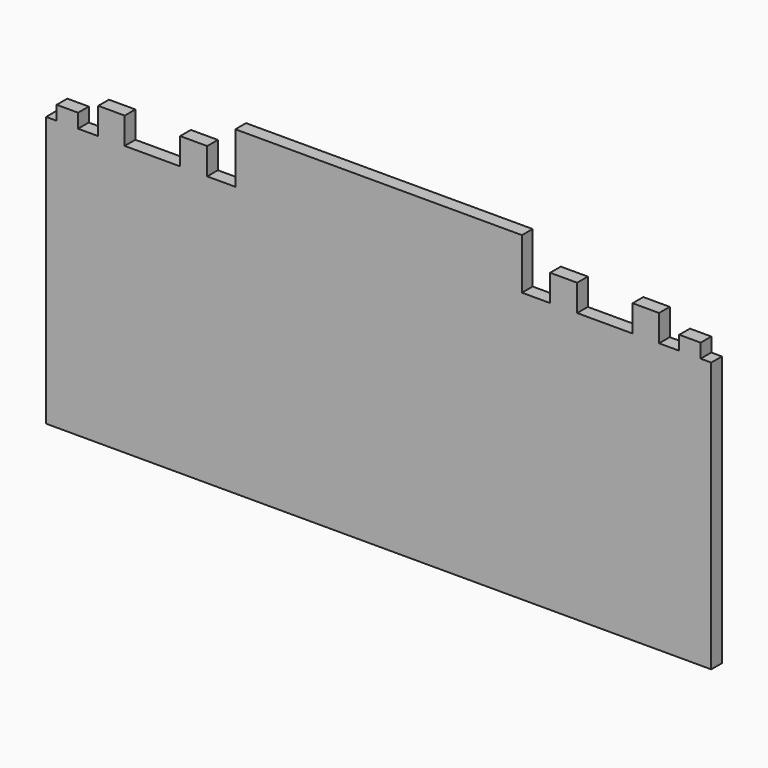
from build123d import *

# Parameters (mm, degrees)
F0_W     = 4.8156529665
F0_H     = 3.1682737172
F0_W_2   = 13.7903224677
F0_H_2   = 58.3333335817
F0_W_3   = 5.948740989
F0_H_3   = 6.0010068119
F0_W_4   = 7.0766145363
F0_W_5   = 6.0773491859
F1_DEPTH = 3


with BuildPart() as f1:
    # F0 (on Front) → F1 (new body)
    with BuildSketch(Plane.XZ):
        Polygon((-74.7530832887, 60.709875077), (-74.7530832887, 58.3333335817), (-74.7530832887, 0), (-74.5370388031, 0), (-41.4616949856, 0), (-41.4616949856, 58.3333335817), (-38.538210094, 58.3333335817), (-38.538210094, 60.709875077), (-44.6155592799, 60.709875077), (-57.0795871317, 60.709875077), (-63.0283281207, 60.709875077), (-67.5607025623, 60.709875077), (-72.3763555288, 60.709875077), align=None)
        with Locations((-69.9685290456, 62.2940119356)):
            Rectangle(F0_W, F0_H)
        Polygon((-41.4616949856, 58.3333335817), (-41.4616949856, 0), (-34.3850813806, 0), (-34.3850813806, 58.3333335817), (-38.538210094, 58.3333335817), align=None)
        with Locations((-27.4899201468, 29.1666667908)):
            Rectangle(F0_W_2, F0_H_2)
        with Locations((-60.0539576262, 63.7103784829)):
            Rectangle(F0_W_3, F0_H_3)
        with Locations((-17.0564516447, 29.1666667908)):
            Rectangle(F0_W_4, F0_H_2)
        Polygon((-38.538210094, 58.3333335817), (-34.3850813806, 58.3333335817), (-20.5947589129, 58.3333335817), (-13.5181443766, 58.3333335817), (0, 58.3333335817), (13.5181443766, 58.3333335817), (20.5947589129, 58.3333335817), (34.3850813806, 58.3333335817), (38.538210094, 58.3333335817), (38.538210094, 60.709875077), (32.2106257081, 60.709875077), (0, 60.709875077), (-32.2106257081, 60.709875077), (-38.538210094, 60.709875077), align=None)
        Polygon((-13.5181443766, 58.3333335817), (-13.5181443766, 0), (13.5181443766, 0), (13.5181443766, 58.3333335817), (0, 58.3333335817), align=None)
        with Locations((-41.5768846869, 63.7103784829)):
            Rectangle(F0_W_5, F0_H_3)
        with Locations((17.0564516447, 29.1666667908)):
            Rectangle(F0_W_4, F0_H_2)
        Polygon((0, 72.0912739635), (-32.2106257081, 60.709875077), (0, 60.709875077), (32.2106257081, 60.709875077), align=None)
        Polygon((-32.2106257081, 72.0912739635), (-32.2106257081, 60.709875077), (0, 72.0912739635), align=None)
        with Locations((27.4899201468, 29.1666667908)):
            Rectangle(F0_W_2, F0_H_2)
        Polygon((32.2106257081, 72.0912739635), (0, 72.0912739635), (32.2106257081, 60.709875077), align=None)
        Polygon((34.3850813806, 58.3333335817), (34.3850813806, 0), (41.4616949856, 0), (41.4616949856, 58.3333335817), (38.538210094, 58.3333335817), align=None)
        Polygon((41.4616949856, 58.3333335817), (41.4616949856, 0), (74.5370388031, 0), (74.7530832887, 0), (74.7530832887, 58.3333335817), (74.7530832887, 60.709875077), (72.3763555288, 60.709875077), (67.5607025623, 60.709875077), (63.0283281207, 60.709875077), (57.0795871317, 60.709875077), (44.6155592799, 60.709875077), (38.538210094, 60.709875077), (38.538210094, 58.3333335817), align=None)
        with Locations((41.5768846869, 63.7103784829)):
            Rectangle(F0_W_5, F0_H_3)
        with Locations((60.0539576262, 63.7103784829)):
            Rectangle(F0_W_3, F0_H_3)
        with Locations((69.9685290456, 62.2940119356)):
            Rectangle(F0_W, F0_H)
    extrude(amount=F1_DEPTH)


solid = f1.part
